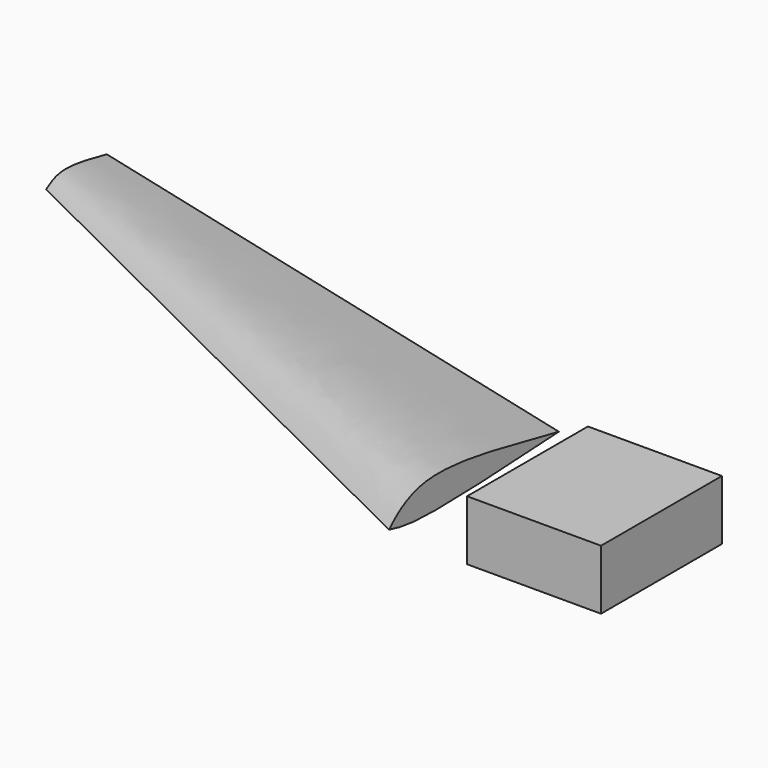
from build123d import *

# Parameters (mm, degrees)
F0_W     = 470
F0_H     = 530
F1_DEPTH = 210


with BuildPart() as f1:
    # F0 (on Top) → F1 (new body)
    with BuildSketch(Plane.XY):
        with Locations((33.7466073383, 0)):
            Rectangle(F0_W, F0_H)
    extrude(amount=F1_DEPTH)


with BuildPart() as f6:
    # F3 (on offset) → F6 section 0
    with BuildSketch(Plane(origin=(-401.2533926617, 0, 0), x_dir=(0, -1, 0), z_dir=(-1, 0, 0))):
        with BuildLine():
            add(Edge.make_bspline(
                [(-387.6569271088, 78.9278075099), (-135.9898017999, 64.6794101598), (224.4161822446, 44.274648665), (326.3545707582, 70.8958638525), (357.110619545, 78.9278075099)],
                knots=[0, 0, 0, 0, 0.6982878655, 1, 1, 1, 1], degree=3))
            add(Edge.make_bspline(
                [(357.110619545, 78.9278075099), (331.9908976238, 104.4821942158), (202.8191115387, 222.8902341431), (-185.9844817831, 116.9024497136), (-387.6569271088, 78.9278075099)],
                knots=[0, 0, 0, 0, 0.3430325064, 1, 1, 1, 1], degree=3))
        make_face()
    # F5 (on offset) → F6 section 1
    with BuildSketch(Plane(origin=(-2401.2533926617, 0, 0), x_dir=(0, -1, 0), z_dir=(-1, 0, 0))):
        with BuildLine():
            add(Edge.make_bspline(
                [(-905.7362675667, 74.5454803109), (-823.3009339047, 62.6983639292), (-698.1125407613, 44.7070318471), (-654.4004215865, 66.9494702606), (-639.4723057747, 74.5454803109)],
                knots=[0, 0, 0, 0, 0.6584902289, 1, 1, 1, 1], degree=3))
            add(Edge.make_bspline(
                [(-639.4723057747, 74.5454803109), (-657.7125474759, 86.0601608354), (-707.0607908361, 117.2126678058), (-828.9193957593, 91.0425333248), (-905.7362675667, 74.5454803109)],
                knots=[0, 0, 0, 0, 0.3696229178, 1, 1, 1, 1], degree=3))
        make_face()
    loft()


solid = Compound([f1.part, f6.part])
